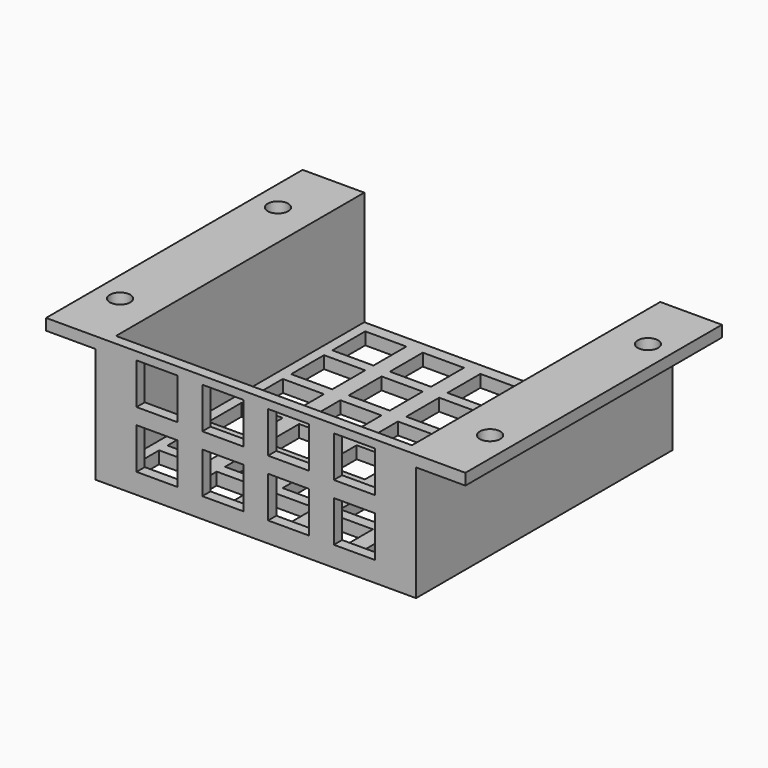
from build123d import *

# Parameters (mm, degrees)
F1_DEPTH = 39
F2_R     = 2.5
F3_DEPTH = 2.748386896
F4_W     = 10
F4_H     = 10
F5_DEPTH = 3
F6_W     = 71.9977971367
F6_H     = 27.748386896
F7_DEPTH = 2.5
F8_W     = 10
F8_H     = 10
F9_DEPTH = 2.5


with BuildPart() as f1:
    # F0 (on Front) → F1 (new body, symmetric)
    with BuildSketch(Plane.XZ):
        Polygon((33.0240737289, -6.6249261405), (-2.9748248395, -6.6249261405), (-2.9748248395, -9.6249261405), (36.0251751605, -9.6249261405), (36.0251751605, 18.3750738595), (48.0240737289, 18.3750738595), (48.0240737289, 21.1234607555), (33.0240737289, 21.1234607555), align=None)
        Polygon((-2.9748248395, -9.6249261405), (-2.9748248395, -6.6249261405), (-38.9737234078, -6.6249261405), (-38.9737234078, 21.1234607555), (-53.9737234078, 21.1234607555), (-53.9737234078, 18.3750738595), (-41.9748248395, 18.3750738595), (-41.9748248395, -9.6249261405), align=None)
    extrude(amount=F1_DEPTH, both=True)

    # F2 (on face) → F3 (cut, through all)
    with BuildSketch(Plane.XY.offset(21.1234607555)):
        with Locations((42.0246244447, -24)):
            Circle(F2_R)
        with Locations((42.0246244447, 24)):
            Circle(F2_R)
        with Locations((-47.9742741236, 24)):
            Circle(F2_R)
        with Locations((-47.9742741236, -24)):
            Circle(F2_R)
    extrude(amount=-F3_DEPTH, mode=Mode.SUBTRACT)

    # F4 (on face) → F5 (cut, through all)
    with BuildSketch(Plane(origin=(0, 0, -9.6249261405), x_dir=(1, 0, 0), z_dir=(0, 0, -1))):
        with Locations((-31.4737234078, 31.5)):
            Rectangle(F4_W, F4_H)
        with Locations((-17.4737234078, 31.5)):
            Rectangle(F4_W, F4_H)
        with Locations((-3.4737234078, 31.5)):
            Rectangle(F4_W, F4_H)
        with Locations((10.5262765922, 31.5)):
            Rectangle(F4_W, F4_H)
        with Locations((24.5262765922, 31.5)):
            Rectangle(F4_W, F4_H)
        with Locations((10.5262765922, 18.9653515071)):
            Rectangle(F4_W, F4_H)
        with Locations((24.5262765922, 18.9653515071)):
            Rectangle(F4_W, F4_H)
        with Locations((-31.4737234078, 18.9653515071)):
            Rectangle(F4_W, F4_H)
        with Locations((-17.4737234078, 18.9653515071)):
            Rectangle(F4_W, F4_H)
        with Locations((-3.4737234078, 18.9653515071)):
            Rectangle(F4_W, F4_H)
        with Locations((10.5262765922, 6.4307030141)):
            Rectangle(F4_W, F4_H)
        with Locations((24.5262765922, 6.4307030141)):
            Rectangle(F4_W, F4_H)
        with Locations((-31.4737234078, 6.4307030141)):
            Rectangle(F4_W, F4_H)
        with Locations((-17.4737234078, 6.4307030141)):
            Rectangle(F4_W, F4_H)
        with Locations((-3.4737234078, 6.4307030141)):
            Rectangle(F4_W, F4_H)
        with Locations((10.5262765922, -6.1039454788)):
            Rectangle(F4_W, F4_H)
        with Locations((24.5262765922, -6.1039454788)):
            Rectangle(F4_W, F4_H)
        with Locations((-31.4737234078, -6.1039454788)):
            Rectangle(F4_W, F4_H)
        with Locations((-17.4737234078, -6.1039454788)):
            Rectangle(F4_W, F4_H)
        with Locations((-3.4737234078, -6.1039454788)):
            Rectangle(F4_W, F4_H)
        with Locations((10.5262765922, -18.6385939717)):
            Rectangle(F4_W, F4_H)
        with Locations((24.5262765922, -18.6385939717)):
            Rectangle(F4_W, F4_H)
        with Locations((-31.4737234078, -18.6385939717)):
            Rectangle(F4_W, F4_H)
        with Locations((-17.4737234078, -18.6385939717)):
            Rectangle(F4_W, F4_H)
        with Locations((-3.4737234078, -18.6385939717)):
            Rectangle(F4_W, F4_H)
        with Locations((10.5262765922, -31.1732424647)):
            Rectangle(F4_W, F4_H)
        with Locations((24.5262765922, -31.1732424647)):
            Rectangle(F4_W, F4_H)
        with Locations((-31.4737234078, -31.1732424647)):
            Rectangle(F4_W, F4_H)
        with Locations((-17.4737234078, -31.1732424647)):
            Rectangle(F4_W, F4_H)
        with Locations((-3.4737234078, -31.1732424647)):
            Rectangle(F4_W, F4_H)
    extrude(amount=-F5_DEPTH, mode=Mode.SUBTRACT)

    # F6 (on face) → F7 (join)
    with BuildSketch(Plane.XZ.offset(39)):
        with Locations((-2.9748248395, 7.2492673075)):
            Rectangle(F6_W, F6_H)
    extrude(amount=-F7_DEPTH)

    # F8 (on face) → F9 (cut, through all)
    with BuildSketch(Plane.XZ.offset(39)):
        with Locations((-26.9759262711, 14.1834607555)):
            Rectangle(F8_W, F8_H)
        with Locations((-10.9759262711, 14.1834607555)):
            Rectangle(F8_W, F8_H)
        with Locations((5.0240737289, 14.1834607555)):
            Rectangle(F8_W, F8_H)
        with Locations((21.0240737289, 14.1834607555)):
            Rectangle(F8_W, F8_H)
        with Locations((21.0240737289, 0.3084607555)):
            Rectangle(F8_W, F8_H)
        with Locations((-26.9759262711, 0.3084607555)):
            Rectangle(F8_W, F8_H)
        with Locations((-10.9759262711, 0.3084607555)):
            Rectangle(F8_W, F8_H)
        with Locations((5.0240737289, 0.3084607555)):
            Rectangle(F8_W, F8_H)
    extrude(amount=-F9_DEPTH, mode=Mode.SUBTRACT)


solid = f1.part
